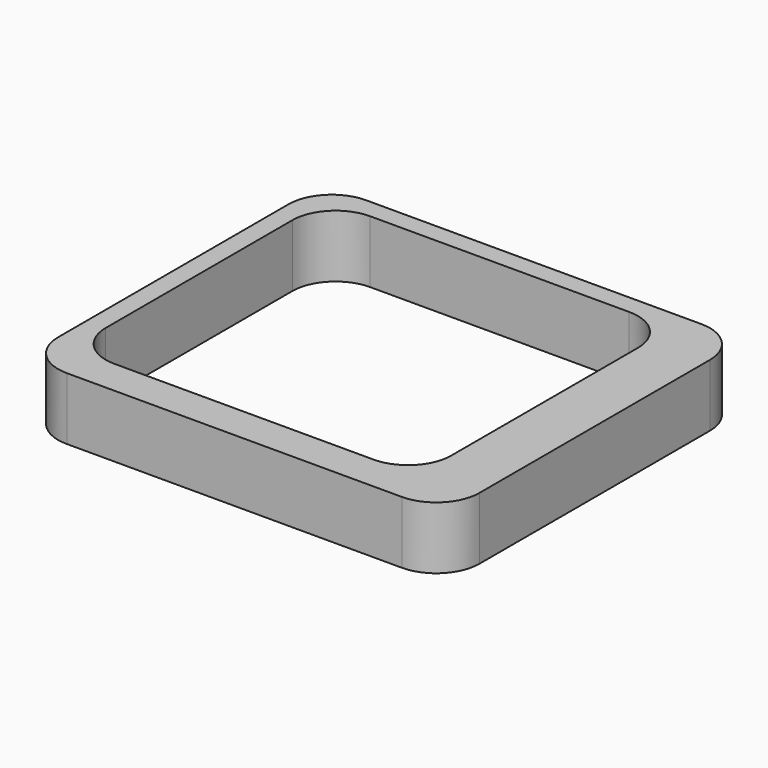
from build123d import *

# Parameters (mm, degrees)
F0_W     = 43.9
F0_H     = 39
F0_W_2   = 36
F0_H_2   = 33.3
F1_DEPTH = 6.5
F2_R     = 4.5


with BuildPart() as f1:
    # F0 (on Top) → F1 (new body)
    with BuildSketch(Plane.XY):
        with Locations((1.885586, 0.068766)):
            Rectangle(F0_W, F0_H)
        with Locations((-0.064414, 0.918766)):
            Rectangle(F0_W_2, F0_H_2, mode=Mode.SUBTRACT)
    extrude(amount=F1_DEPTH)

    # F2
    f2_edges = [f1.edges().sort_by_distance(p)[0] for p in [
        (-18.064414, 17.568766, 3.25),
        (-18.064414, -15.731234, 3.25),
        (17.935586, -15.731234, 3.25),
        (17.935586, 17.568766, 3.25),
        (23.835586, -19.431234, 3.25),
        (-20.064414, -19.431234, 3.25),
        (23.835586, 19.568766, 3.25),
        (-20.064414, 19.568766, 3.25),
    ]]
    fillet(f2_edges, radius=F2_R)


solid = f1.part
